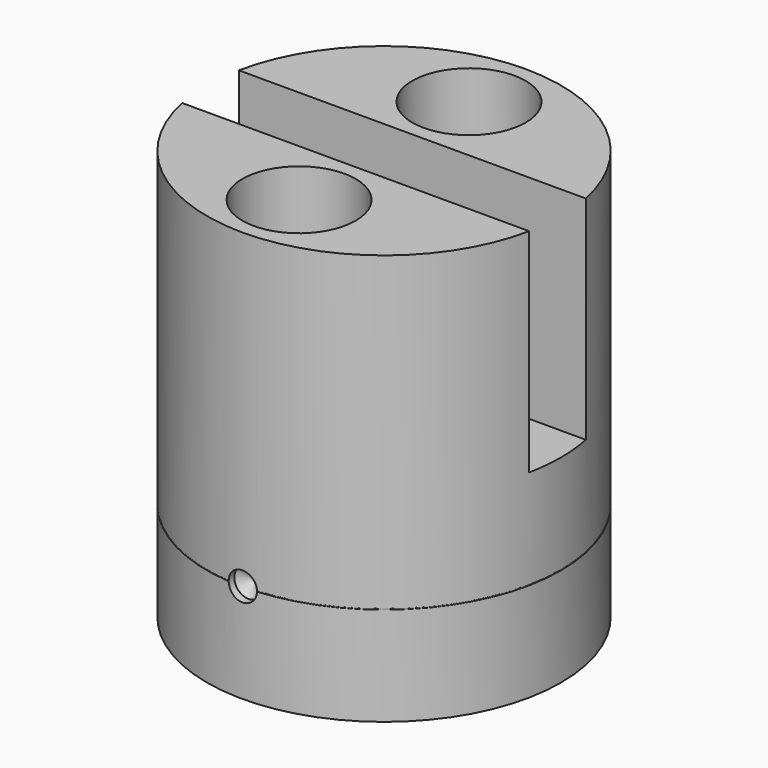
from build123d import *

# Parameters (mm, degrees)
F0_R      = 12.5
F1_DEPTH  = 29
F2_W      = 35.4545446894
F2_H      = 5
F3_DEPTH  = 15
F5_D      = 4
F4_R      = 4
F6_DEPTH  = 18
F9_D      = 2
F9_DEPTH  = 0.5
F9_START  = 0.0400643
F9_TIP    = 0.600860619
F10_R     = 0.025
F12_R     = 1.5
F13_DEPTH = 5


with BuildPart() as f1:
    # F0 (on Top) → F1 (new body)
    with BuildSketch(Plane.XY):
        Circle(F0_R)
    extrude(amount=F1_DEPTH)

    # F2 (on face) → F3 (cut)
    with BuildSketch(Plane.XY.offset(29)):
        with Locations((4.610654898, 0)):
            Rectangle(F2_W, F2_H)
    extrude(amount=-F3_DEPTH, mode=Mode.SUBTRACT)

    # F5 (through all)
    with Locations(Plane.XY.offset(29)):
        with Locations((0, 7.5), (0, -7.5)):
            Hole(F5_D / 2)

    # F4 (on face) → F6 (cut)
    with BuildSketch(Plane.XY.offset(29)):
        with Locations((0, 7.5)):
            Circle(F4_R)
        with Locations((0, -7.5)):
            Circle(F4_R)
    extrude(amount=-F6_DEPTH, mode=Mode.SUBTRACT)

    # F9
    # its depths count from where the whole tool has entered the part; down to there all is cleared
    with Locations(Plane.XZ.offset(12.5).offset(-F9_START)):
        with Locations((0, 7)):
            Hole(F9_D / 2, depth=F9_DEPTH)
            with Locations((0, 0, -(F9_DEPTH + F9_TIP / 2))):  # 118° drill point
                Cone(0, F9_D / 2, F9_TIP, mode=Mode.SUBTRACT)

    # F10 (on Front) → F11 (revolve, cut)
    with BuildSketch(Plane.XZ):
        with Locations((12.5041836873, 7)):
            Circle(F10_R)
    revolve(axis=Axis((0, 0, 4.1495896876), (0, 0, -1)), mode=Mode.SUBTRACT)

    # F12 (on face) → F13 (cut)
    with BuildSketch(Plane(origin=(0, 0, 0), x_dir=(1, 0, 0), z_dir=(0, 0, -1))):
        with Locations((6.0104076401, 6.0104076401)):
            Circle(F12_R)
        with Locations((-6.0104076401, -6.0104076401)):
            Circle(F12_R)
    extrude(amount=-F13_DEPTH, mode=Mode.SUBTRACT)


solid = f1.part
